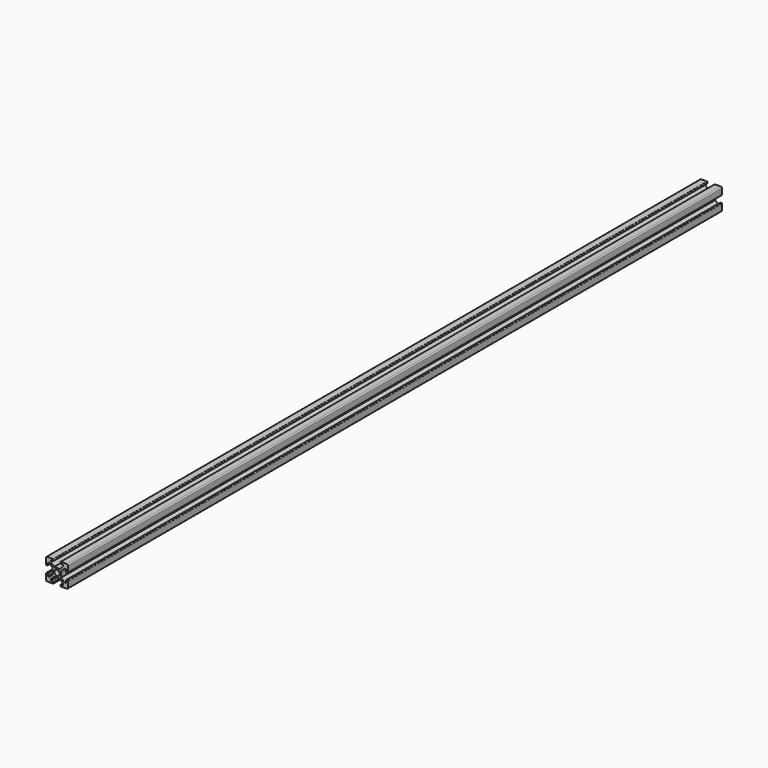
from build123d import *

# Parameters (mm, degrees)
F0_R     = 2.5
F1_DEPTH = 750


with BuildPart() as f1:
    # F0 (on Front) → F1 (new body)
    with BuildSketch(Plane.XZ):
        with BuildLine():
            ThreePointArc((-3.1, 9.5), (-3.246447, 9.853553), (-3.6, 10))
            Line((-3.6, 10), (-9, 10))
            ThreePointArc((-9, 10), (-9.707107, 9.707107), (-10, 9))
            Line((-10, 9), (-10, 3.6))
            ThreePointArc((-10, 3.6), (-9.853553, 3.246447), (-9.5, 3.1))
            Line((-9.5, 3.1), (-8.457938, 3.1))
            Line((-8.457938, 3.1), (-8.457938, 5.63))
            Line((-8.457938, 5.63), (-6.915877, 5.63))
            Line((-6.915877, 5.63), (-3.9, 2.614123))
            Line((-3.9, 2.614123), (-3.9, -2.614123))
            Line((-3.9, -2.614123), (-6.915877, -5.63))
            Line((-6.915877, -5.63), (-8.457938, -5.63))
            Line((-8.457938, -5.63), (-8.457938, -3.1))
            Line((-8.457938, -3.1), (-9.5, -3.1))
            ThreePointArc((-9.5, -3.1), (-9.853553, -3.246447), (-10, -3.6))
            Line((-10, -3.6), (-10, -9))
            ThreePointArc((-10, -9), (-9.707107, -9.707107), (-9, -10))
            Line((-9, -10), (-3.6, -10))
            ThreePointArc((-3.6, -10), (-3.246447, -9.853553), (-3.1, -9.5))
            Line((-3.1, -9.5), (-3.1, -8.457938))
            Line((-3.1, -8.457938), (-5.63, -8.457938))
            Line((-5.63, -8.457938), (-5.63, -6.915877))
            Line((-5.63, -6.915877), (-2.614123, -3.9))
            Line((-2.614123, -3.9), (2.614123, -3.9))
            Line((2.614123, -3.9), (5.63, -6.915877))
            Line((5.63, -6.915877), (5.63, -8.457938))
            Line((5.63, -8.457938), (3.1, -8.457938))
            Line((3.1, -8.457938), (3.1, -9.5))
            ThreePointArc((3.1, -9.5), (3.246447, -9.853553), (3.6, -10))
            Line((3.6, -10), (9, -10))
            ThreePointArc((9, -10), (9.707107, -9.707107), (10, -9))
            Line((10, -9), (10, -3.6))
            ThreePointArc((10, -3.6), (9.853553, -3.246447), (9.5, -3.1))
            Line((9.5, -3.1), (8.457938, -3.1))
            Line((8.457938, -3.1), (8.457938, -5.63))
            Line((8.457938, -5.63), (6.915877, -5.63))
            Line((6.915877, -5.63), (3.9, -2.614123))
            Line((3.9, -2.614123), (3.9, 2.614123))
            Line((3.9, 2.614123), (6.915877, 5.63))
            Line((6.915877, 5.63), (8.457938, 5.63))
            Line((8.457938, 5.63), (8.457938, 3.1))
            Line((8.457938, 3.1), (9.5, 3.1))
            ThreePointArc((9.5, 3.1), (9.853553, 3.246447), (10, 3.6))
            Line((10, 3.6), (10, 9))
            ThreePointArc((10, 9), (9.707107, 9.707107), (9, 10))
            Line((9, 10), (3.6, 10))
            ThreePointArc((3.6, 10), (3.246447, 9.853553), (3.1, 9.5))
            Line((3.1, 9.5), (3.1, 8.457938))
            Line((3.1, 8.457938), (5.63, 8.457938))
            Line((5.63, 8.457938), (5.63, 6.915877))
            Line((5.63, 6.915877), (2.614123, 3.9))
            Line((2.614123, 3.9), (-2.614123, 3.9))
            Line((-2.614123, 3.9), (-5.63, 6.915877))
            Line((-5.63, 6.915877), (-5.63, 8.457938))
            Line((-5.63, 8.457938), (-3.1, 8.457938))
            Line((-3.1, 8.457938), (-3.1, 9.5))
        make_face()
        Circle(F0_R, mode=Mode.SUBTRACT)
    extrude(amount=-F1_DEPTH)


solid = f1.part
